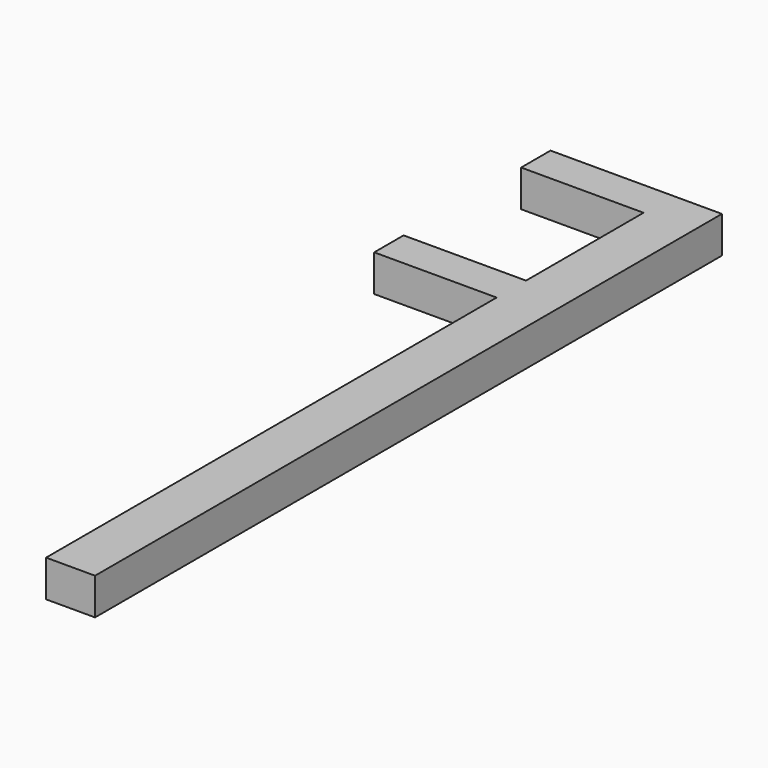
from build123d import *

# Parameters (mm, degrees)
F0_W     = 63.5
F0_H     = 19.05
F1_DEPTH = 19.05


with BuildPart() as f1:
    # F0 (on Top) → F1 (new body)
    with BuildSketch(Plane.XY):
        Polygon((-35.814, 263.690555), (-35.814, -28.409445), (-10.414, -28.409445), (-10.414, 377.990555), (-35.814, 377.990555), (-35.814, 358.940555), (-35.814, 282.740555), align=None)
        with Locations((-67.564, 273.215555)):
            Rectangle(F0_W, F0_H)
        with Locations((-67.564, 368.465555)):
            Rectangle(F0_W, F0_H)
    extrude(amount=F1_DEPTH)


solid = f1.part
